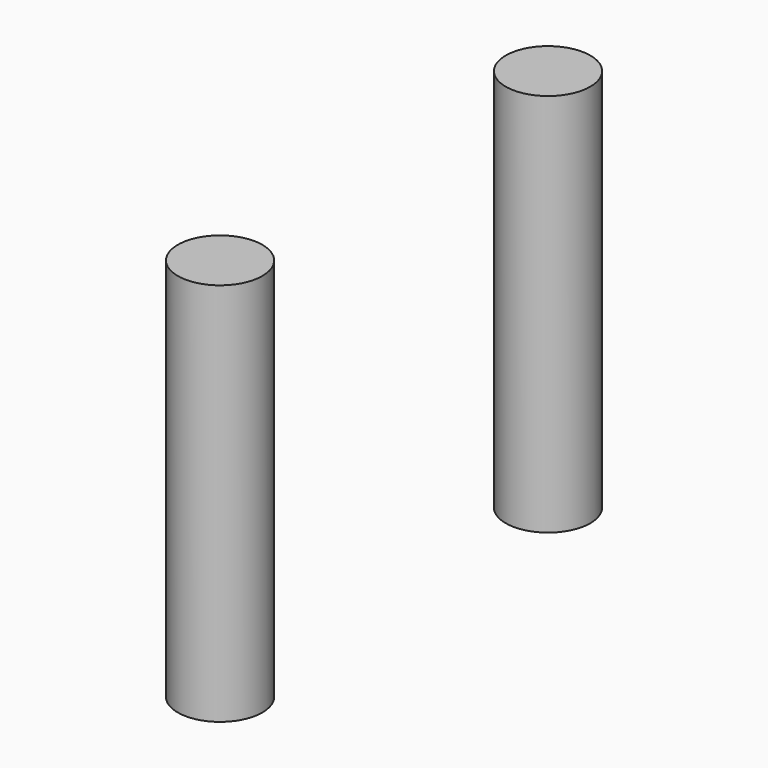
from build123d import *

# Parameters (mm, degrees)
CYLINDER007_R     = 1.65
CYLINDER007_DEPTH = 15
CYLINDER008_R     = 1.65
CYLINDER008_DEPTH = 15


with BuildPart() as cylinder007:
    # Cylinder007 → Cylinder007 (new body)
    with BuildSketch(Plane(origin=(0, -8, 0), x_dir=(1, 0, 0), z_dir=(0, 0, 1))):
        Circle(CYLINDER007_R)
    extrude(amount=CYLINDER007_DEPTH)


with BuildPart() as fusion:
    # Cylinder008 → Cylinder008 (new body)
    with BuildSketch(Plane(origin=(0, 8, 0), x_dir=(1, 0, 0), z_dir=(0, 0, 1))):
        Circle(CYLINDER008_R)
    extrude(amount=CYLINDER008_DEPTH)

    # Fusion: union Cylinder007
    add(cylinder007.part)


solid = fusion.part
